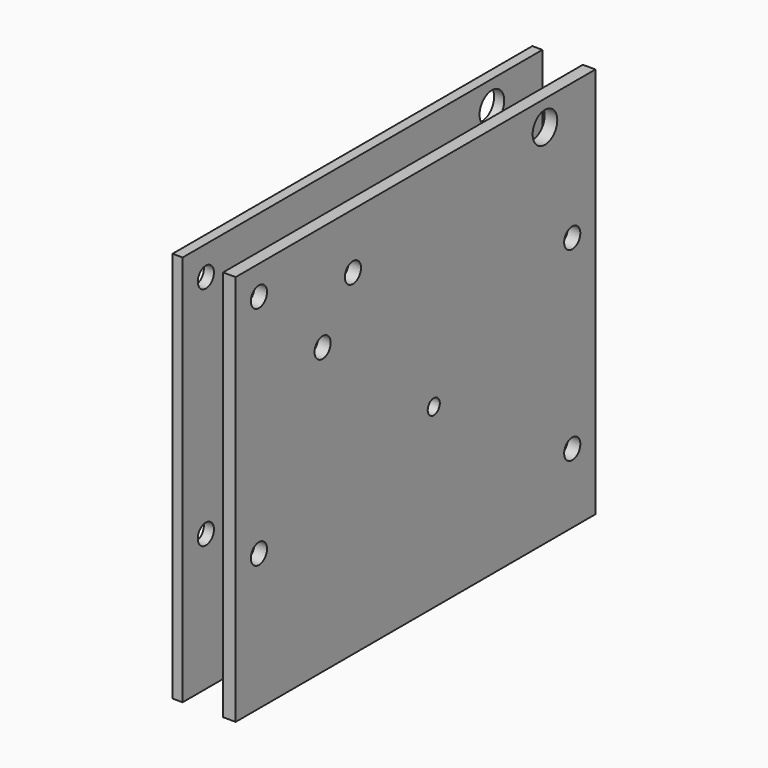
from build123d import *

# Parameters (mm, degrees)
F0_R     = 4
F0_R_2   = 3
F0_R_3   = 6.1
F1_DEPTH = 4
F2_R     = 4
F2_R_2   = 3
F2_R_3   = 6.1
F3_DEPTH = 5


with BuildPart() as f1:
    # F0 (on Right) → F1 (new body)
    with BuildSketch(Plane.YZ):
        Polygon((-28, 0), (0, 0), (84, 0), (84, 16), (150, 16), (150, 155), (0, 155), (-28, 155), align=None)
        with Locations((-16.5, 54)):
            Circle(F0_R, mode=Mode.SUBTRACT)
        with Locations((120, 37.5)):
            Circle(F0_R, mode=Mode.SUBTRACT)
        with Locations((138.5, 27.5)):
            Circle(F0_R, mode=Mode.SUBTRACT)
        with Locations((70, 70)):
            Circle(F0_R_2, mode=Mode.SUBTRACT)
        with Locations((15, 113)):
            Circle(F0_R, mode=Mode.SUBTRACT)
        with Locations((-16.5, 143.5)):
            Circle(F0_R, mode=Mode.SUBTRACT)
        with Locations((30, 133)):
            Circle(F0_R, mode=Mode.SUBTRACT)
        with Locations((138.5, 101)):
            Circle(F0_R, mode=Mode.SUBTRACT)
        with Locations((125, 145)):
            Circle(F0_R_3, mode=Mode.SUBTRACT)
    extrude(amount=F1_DEPTH)


with BuildPart() as f3:
    # F2 (on Right) → F3 (new body)
    with BuildSketch(Plane.YZ):
        Polygon((-28, 0), (0, 0), (150, 0), (150, 155), (0, 155), (-28, 155), align=None)
        with Locations((-16.5, 54)):
            Circle(F2_R, mode=Mode.SUBTRACT)
        with Locations((138.5, 27.5)):
            Circle(F2_R, mode=Mode.SUBTRACT)
        with Locations((70, 70)):
            Circle(F2_R_2, mode=Mode.SUBTRACT)
        with Locations((15, 113)):
            Circle(F2_R, mode=Mode.SUBTRACT)
        with Locations((-16.5, 143.5)):
            Circle(F2_R, mode=Mode.SUBTRACT)
        with Locations((30, 133)):
            Circle(F2_R, mode=Mode.SUBTRACT)
        with Locations((138.5, 101)):
            Circle(F2_R, mode=Mode.SUBTRACT)
        with Locations((125, 145)):
            Circle(F2_R_3, mode=Mode.SUBTRACT)
    extrude(amount=F3_DEPTH)


with BuildPart() as f3_1:
    # F4: moved
    add(f3.part.moved(Location((20, 0, 0))))


solid = Compound([f1.part, f3_1.part])
